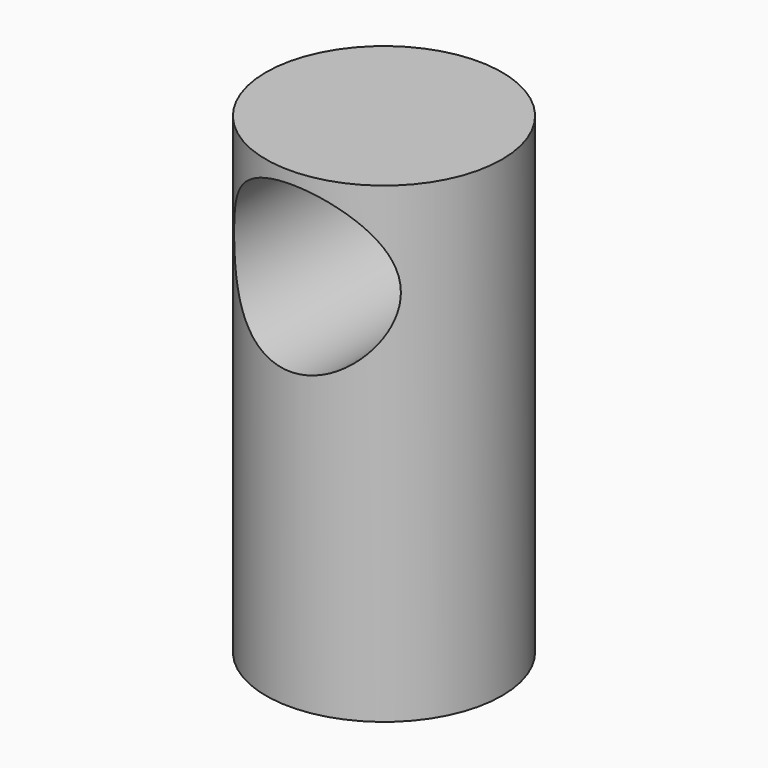
from build123d import *

# Parameters (mm, degrees)
F0_R     = 15.875
F1_DEPTH = 63.5
F2_R     = 11.1125
F3_DEPTH = 38.1


with BuildPart() as f1:
    # F0 (on Top) → F1 (new body)
    with BuildSketch(Plane.XY):
        with Locations((-7.747707, 13.260503)):
            Circle(F0_R)
    extrude(amount=F1_DEPTH)

    # F2 (on Front) → F3 (cut, symmetric)
    with BuildSketch(Plane.XZ):
        with Locations((-7.62, 50.8)):
            Circle(F2_R)
    extrude(amount=F3_DEPTH, both=True, mode=Mode.SUBTRACT)


solid = f1.part
